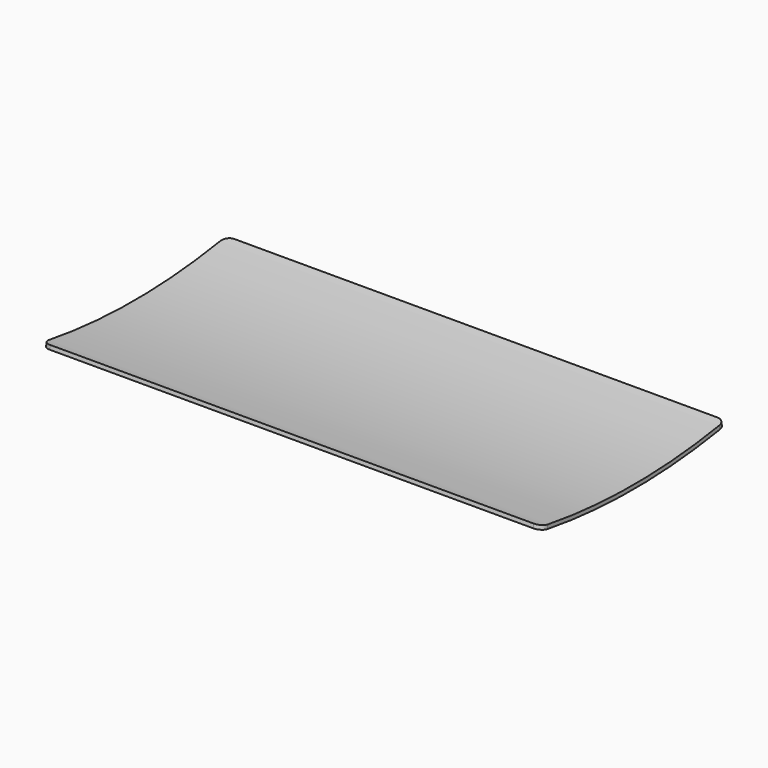
from build123d import *

# Parameters (mm, degrees)
F3_R = 6.35
F4_R = 6.35
F5_R = 6.35


with BuildPart() as f2:
    # F2: sweep along a path in F1
    with BuildLine(Plane.XZ) as f2_path:
        Line((0, 0), (-400.05, 0))
    # F0 (on Right) → F2 (sweep)
    with BuildSketch(Plane.YZ):
        with BuildLine():
            ThreePointArc((107.7558518291, 0), (15.6808518291, -8.0168287935), (-76.3941481709, 0))
            Line((-76.3941481709, 0), (-76.9428730772, -3.1272233654))
            ThreePointArc((-76.9428730772, -3.1272233654), (15.6808518291, -11.1918287935), (108.3045767353, -3.1272233654))
            Line((108.3045767353, -3.1272233654), (107.7558518291, 0))
        make_face()
    sweep(path=f2_path.line)

    # F3
    f3_edges = [f2.edges().sort_by_distance(p)[0] for p in [
        (-400.05, -76.668511, -1.563612),
    ]]
    fillet(f3_edges, radius=F3_R)

    # F4
    f4_edges = [f2.edges().sort_by_distance(p)[0] for p in [
        (-400.05, 108.030214, -1.563612),
        (0, 108.030214, -1.563612),
    ]]
    fillet(f4_edges, radius=F4_R)

    # F5
    f5_edges = [f2.edges().sort_by_distance(p)[0] for p in [
        (0, -76.668511, -1.563612),
    ]]
    fillet(f5_edges, radius=F5_R)


solid = f2.part
